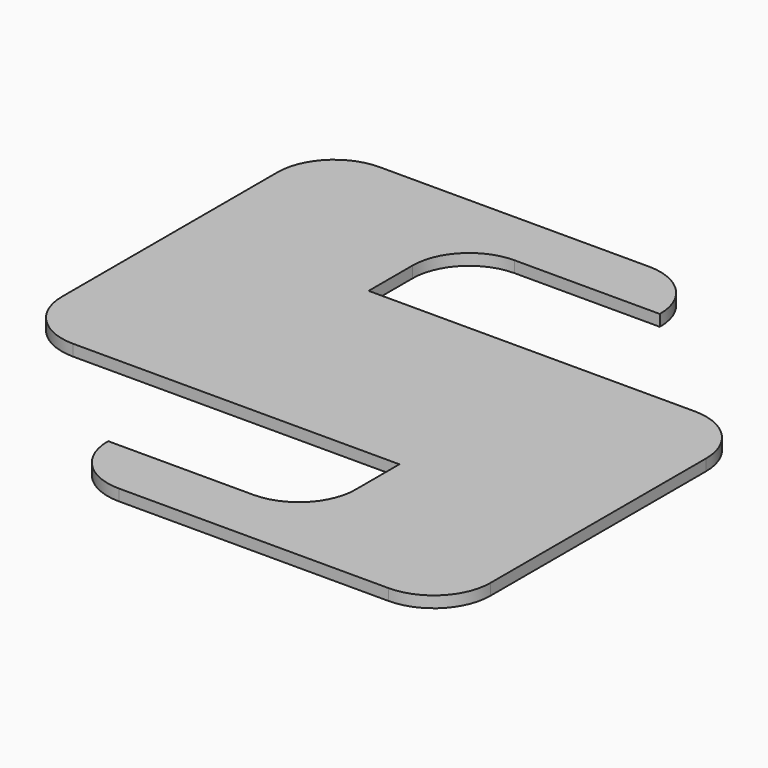
from build123d import *

# Parameters (mm, degrees)
F1_DEPTH = 1


with BuildPart() as f1:
    # F0 (on Top) → F1 (new body)
    with BuildSketch(Plane.XY):
        with BuildLine():
            ThreePointArc((1.797602, 43.67663), (0.333135, 47.212164), (-3.202398, 48.67663))
            Line((-3.202398, 48.67663), (-26.983446, 48.67663))
            ThreePointArc((-26.983446, 48.67663), (-30.51898, 47.212164), (-31.983446, 43.67663))
            Line((-31.983446, 43.67663), (-31.983446, 19.895583))
            ThreePointArc((-31.983446, 19.895583), (-30.51898, 16.360049), (-26.983446, 14.895583))
            Line((-26.983446, 14.895583), (1.797602, 14.895583))
            Line((1.797602, 14.895583), (1.797602, 10.053859))
            ThreePointArc((1.797602, 10.053859), (0.333135, 6.518325), (-3.202398, 5.053859))
            Line((-3.202398, 5.053859), (-16.023897, 5.053859))
            Line((-16.023897, 5.053859), (-16.023897, 5))
            ThreePointArc((-16.023897, 5), (-14.559431, 1.464466), (-11.023897, 0))
            Line((-11.023897, 0), (12.757151, 0))
            ThreePointArc((12.757151, 0), (16.292685, 1.464466), (17.757151, 5))
            Line((17.757151, 5), (17.757151, 28.781048))
            ThreePointArc((17.757151, 28.781048), (16.292685, 32.316582), (12.757151, 33.781048))
            Line((12.757151, 33.781048), (-16.023897, 33.781048))
            Line((-16.023897, 33.781048), (-16.023897, 38.622771))
            ThreePointArc((-16.023897, 38.622771), (-14.559431, 42.158305), (-11.023897, 43.622771))
            Line((-11.023897, 43.622771), (1.797602, 43.622771))
            Line((1.797602, 43.622771), (1.797602, 43.67663))
        make_face()
    extrude(amount=F1_DEPTH)


solid = f1.part
